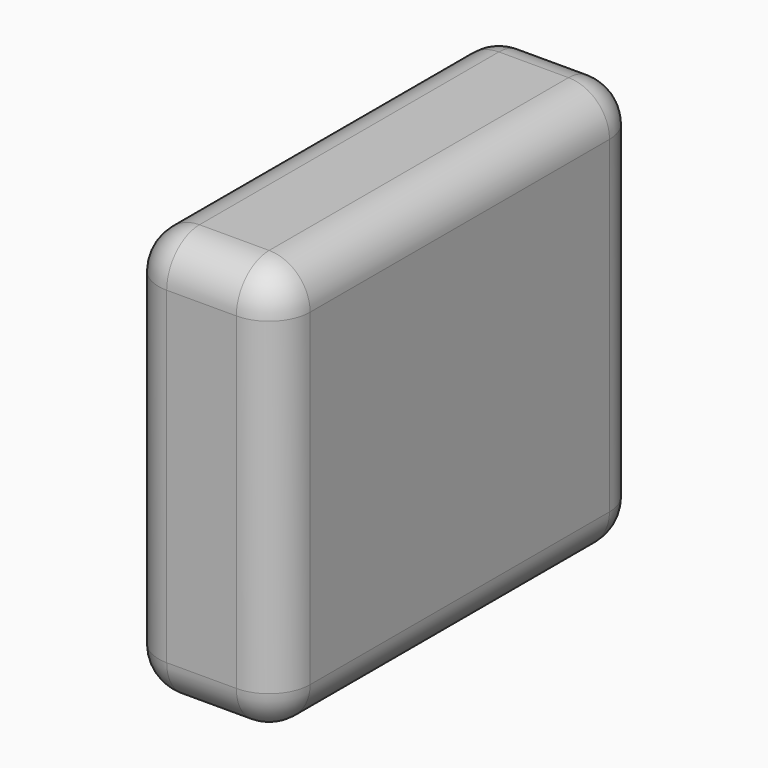
from build123d import *

# Parameters (mm, degrees)
F0_W     = 28.184153
F0_H     = 84.810838
F1_DEPTH = 76.2
F2_R     = 7.62
F3_R     = 7.62


with BuildPart() as f1:
    # F0 (on Top) → F1 (new body)
    with BuildSketch(Plane.XY):
        with Locations((-52.143465, -1.344271)):
            Rectangle(F0_W, F0_H)
    extrude(amount=F1_DEPTH)

    # F2
    f2_edges = [f1.edges().sort_by_distance(p)[0] for p in [
        (-66.235542, 41.061148, 38.1),
        (-66.235542, -43.74969, 38.1),
        (-38.051389, -43.74969, 38.1),
        (-38.051389, 41.061148, 38.1),
    ]]
    fillet(f2_edges, radius=F2_R)

    # F3
    f3_edges = [f1.edges().sort_by_distance(p)[0] for p in [
        (-38.051389, -1.344271, 76.2),
        (-66.235542, -1.344271, 76.2),
        (-66.235542, -1.344271, 0),
        (-38.051389, -1.344271, 0),
    ]]
    fillet(f3_edges, radius=F3_R)


solid = f1.part
